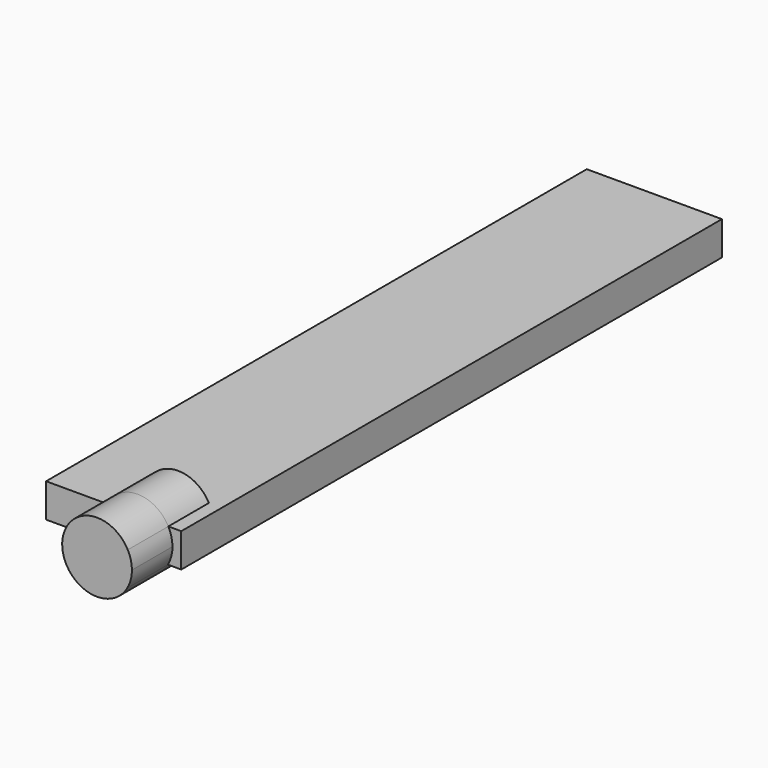
from build123d import *

# Parameters (mm, degrees)
F0_W     = 20
F0_H     = 100
F1_DEPTH = 5
F3_DEPTH = 7.5


with BuildPart() as f1:
    # F0 (on Top) → F1 (new body)
    with BuildSketch(Plane.XY):
        with Locations((0.0934011862, 1.1756785214)):
            Rectangle(F0_W, F0_H)
    extrude(amount=F1_DEPTH)

    # F2 (on face) → F3 (join, symmetric)
    with BuildSketch(Plane.XZ.offset(48.8243214786)):
        with BuildLine():
            ThreePointArc((8.1112192452, 0), (8.6193494847, 1.2366193282), (8.792605752, 2.5622912217))
            ThreePointArc((8.792605752, 2.5622912217), (8.6371766346, 3.8190127838), (8.1802559735, 5))
            Line((8.1802559735, 5), (-0.9116911979, 5))
            ThreePointArc((-0.9116911979, 5), (-1.5235493481, 2.491075256), (-0.8426544696, 0))
            Line((-0.8426544696, 0), (8.1112192452, 0))
        make_face()
        with BuildLine():
            Line((-0.9116911979, 5), (8.1802559735, 5))
            ThreePointArc((8.1802559735, 5), (3.6342823878, 7.7206145859), (-0.9116911979, 5))
        make_face()
        with BuildLine():
            ThreePointArc((-0.8426544696, 0), (3.6342823878, -2.5960321425), (8.1112192452, 0))
            Line((8.1112192452, 0), (-0.8426544696, 0))
        make_face()
    extrude(amount=F3_DEPTH, both=True)


solid = f1.part
